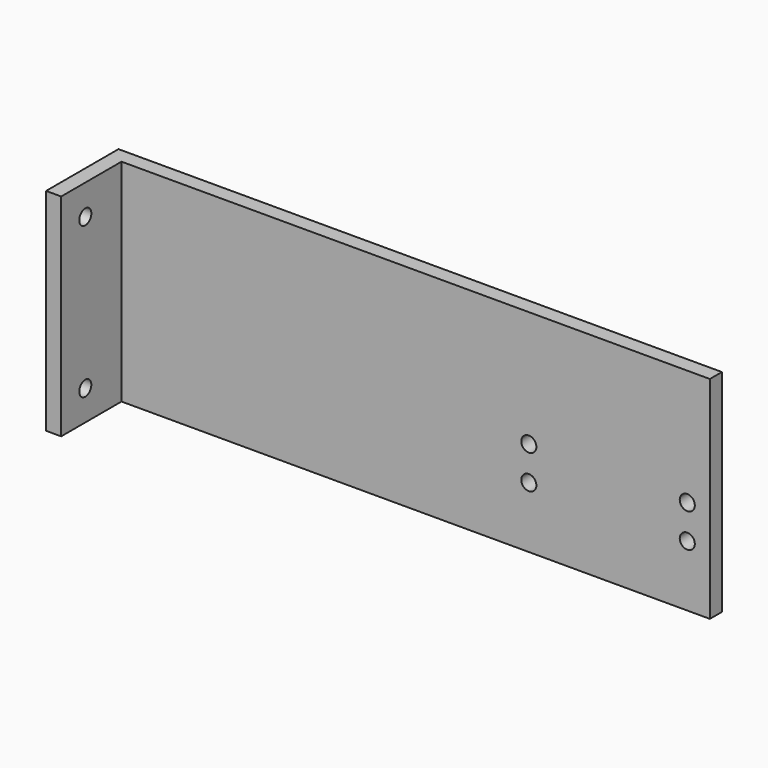
from build123d import *

# Parameters (mm, degrees)
F0_W     = 254
F0_H     = 88.9
F1_DEPTH = 6.35
F3_D     = 6.35
F4_W     = 6.35
F4_H     = 88.9
F5_DEPTH = 31.75
F7_D     = 6.35


with BuildPart() as f1:
    # F0 (on Front) → F1 (new body)
    with BuildSketch(Plane.XZ):
        with Locations((97.875736, -13.176627)):
            Rectangle(F0_W, F0_H)
    extrude(amount=F1_DEPTH)

    # F3 (through all)
    with Locations(Plane.XZ.offset(6.35)):
        with Locations((148.675736, -17.621627), (215.376136, -17.621627), (215.376136, -31.896427), (148.675736, -31.896427)):
            Hole(F3_D / 2)

    # F4 (on face) → F5 (join)
    with BuildSketch(Plane.XZ.offset(6.35)):
        with Locations((-25.949264, -13.176627)):
            Rectangle(F4_W, F4_H)
    extrude(amount=F5_DEPTH)

    # F7 (through all)
    with Locations(Plane.YZ.offset(-22.774264)):
        with Locations((-25.4, -44.926627), (-25.4, 18.573373)):
            Hole(F7_D / 2)


solid = f1.part
